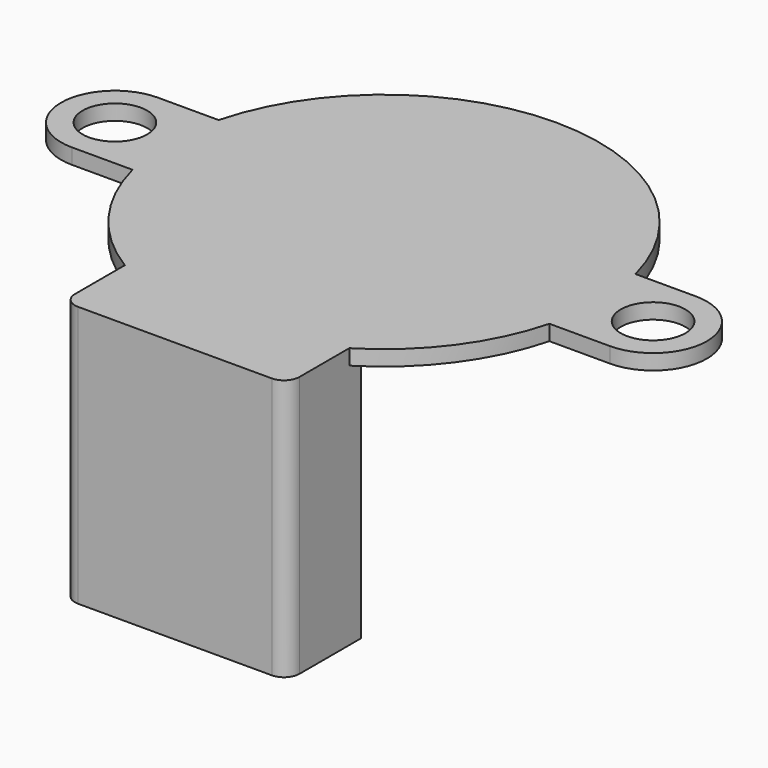
from build123d import *

# Parameters (mm, degrees)
PAD034_DEPTH  = 1
SKETCH045_R   = 2.1
HOLE002_DEPTH = 25
PAD033_DEPTH  = 17


with BuildPart() as part:
    # Sketch044 (on Face1 of CopyPad004) → Pad034 (new body)
    with BuildSketch(Plane.XY.offset(19)):
        with BuildLine():
            ThreePointArc((-13.555442, -3.5), (0, -14), (13.555442, -3.5))
            Line((13.555442, -3.5), (17.5, -3.5))
            ThreePointArc((17.5, -3.5), (21, 0), (17.5, 3.5))
            Line((13.555442, 3.5), (17.5, 3.5))
            ThreePointArc((13.555442, 3.5), (0, 14), (-13.555442, 3.5))
            Line((-13.555442, 3.5), (-17.5, 3.5))
            ThreePointArc((-17.5, 3.5), (-21, 0), (-17.5, -3.5))
            Line((-13.555442, -3.5), (-17.5, -3.5))
        make_face()
    extrude(amount=-PAD034_DEPTH)

    # Sketch045 (on Face9 of Pad034) → Hole002 (cut)
    with BuildSketch(Plane.XY.offset(19)):
        with Locations((-17.5, 0)):
            Circle(SKETCH045_R)
        with Locations((17.5, 0)):
            Circle(SKETCH045_R)
    extrude(amount=-HOLE002_DEPTH, mode=Mode.SUBTRACT)

    # Sketch043 (on Face4 of Hole002) → Pad033 (join)
    with BuildSketch(Plane.XY.offset(19)):
        with BuildLine():
            Line((-7.3, -11), (7.3, -11))
            Line((7.3, -11), (7.3, -16))
            ThreePointArc((6.3, -17), (7.007107, -16.707107), (7.3, -16))
            Line((6.3, -17), (-6.3, -17))
            ThreePointArc((-7.3, -16), (-7.007107, -16.707107), (-6.3, -17))
            Line((-7.3, -16), (-7.3, -11))
        make_face()
    extrude(amount=-PAD033_DEPTH)


solid = part.part
